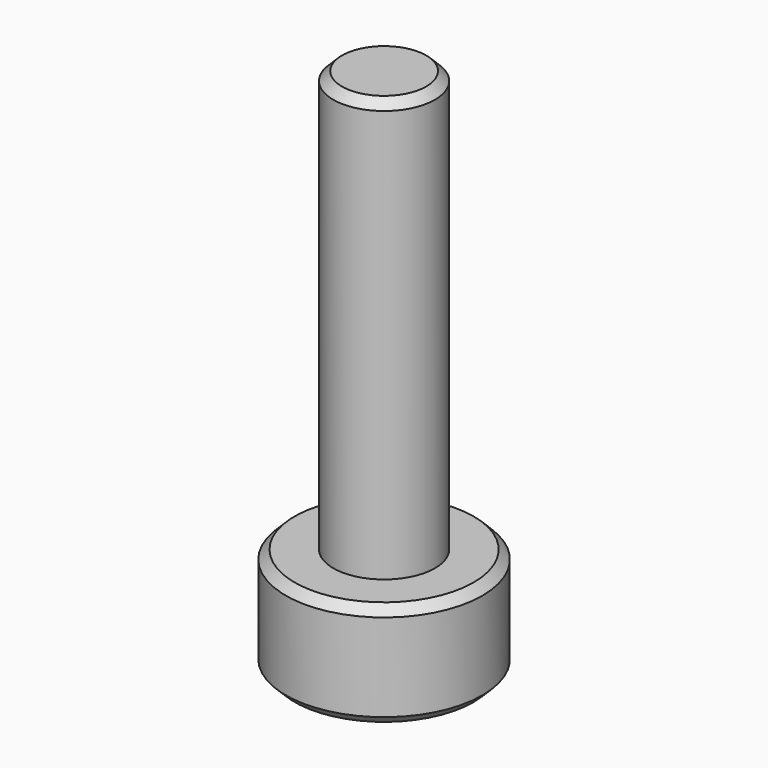
from build123d import *

# Parameters (mm, degrees)
SKETCH_R     = 2.8
PAD_DEPTH    = 3
SKETCH001_R  = 1.45
PAD001_DEPTH = 12
POCKET_DEPTH = 2
CHAMFER_SIZE = 0.25


with BuildPart() as part:
    # Sketch → Pad (new body)
    with BuildSketch(Plane.XY):
        Circle(SKETCH_R)
    extrude(amount=PAD_DEPTH)

    # Sketch001 (on Face3 of Pad) → Pad001 (join)
    with BuildSketch(Plane.XY.offset(3)):
        Circle(SKETCH001_R)
    extrude(amount=PAD001_DEPTH)

    # Sketch002 (on Face2 of Pad001) → Pocket (cut)
    with BuildSketch(Plane(origin=(0, 0, 0), x_dir=(1, 0, 0), z_dir=(0, 0, -1))):
        Polygon((1.259542, 0.814588), (-0.075682, 1.49809), (-1.335225, 0.683502), (-1.259542, -0.814588), (0.075682, -1.49809), (1.335225, -0.683502), align=None)
    extrude(amount=-POCKET_DEPTH, mode=Mode.SUBTRACT)

    # Chamfer
    chamfer_edges = [part.edges().sort_by_distance(p)[0] for p in [
        (-2.8, 0, 3),
        (-2.8, 0, 0),
        (1.297384, -0.065543, 0),
        (0.705454, 1.090796, 0),
        (-0.59193, 1.156339, 0),
        (-1.297384, 0.065543, 0),
        (-0.705454, -1.090796, 0),
        (0.59193, -1.156339, 0),
        (-1.45, 0, 15),
    ]]
    chamfer(chamfer_edges, length=CHAMFER_SIZE)


solid = part.part
